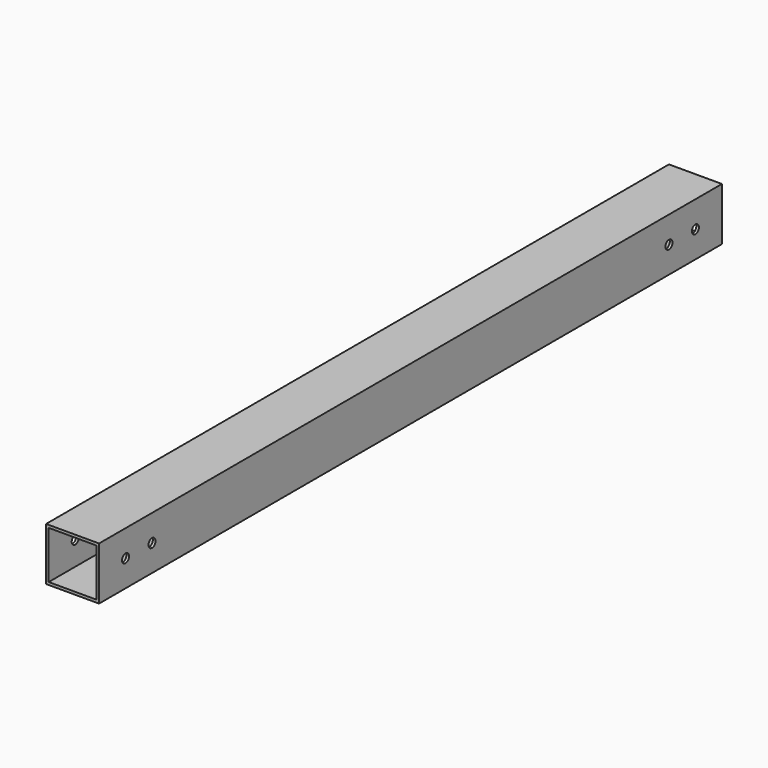
from build123d import *

# Parameters (mm, degrees)
SKETCH_W    = 40
SKETCH_H    = 40
SKETCH_W_2  = 36
SKETCH_H_2  = 36
PAD_DEPTH   = 588
SKETCH001_R = 3.3
HOLE_DEPTH  = 40.001


with BuildPart() as part:
    # Sketch → Pad (new body)
    with BuildSketch(Plane.XZ):
        Rectangle(SKETCH_W, SKETCH_H)
        Rectangle(SKETCH_W_2, SKETCH_H_2, mode=Mode.SUBTRACT)
    extrude(amount=PAD_DEPTH)

    # Sketch001 → Hole (cut, through all)
    with BuildSketch(Plane(origin=(20, 0, 0), x_dir=(0, 0, 1), z_dir=(1, 0, 0))):
        with Locations((0, 25)):
            Circle(SKETCH001_R)
        with Locations((0, 50)):
            Circle(SKETCH001_R)
        with Locations((0, 563)):
            Circle(SKETCH001_R)
        with Locations((0, 538)):
            Circle(SKETCH001_R)
    extrude(amount=-HOLE_DEPTH, mode=Mode.SUBTRACT)


solid = part.part
